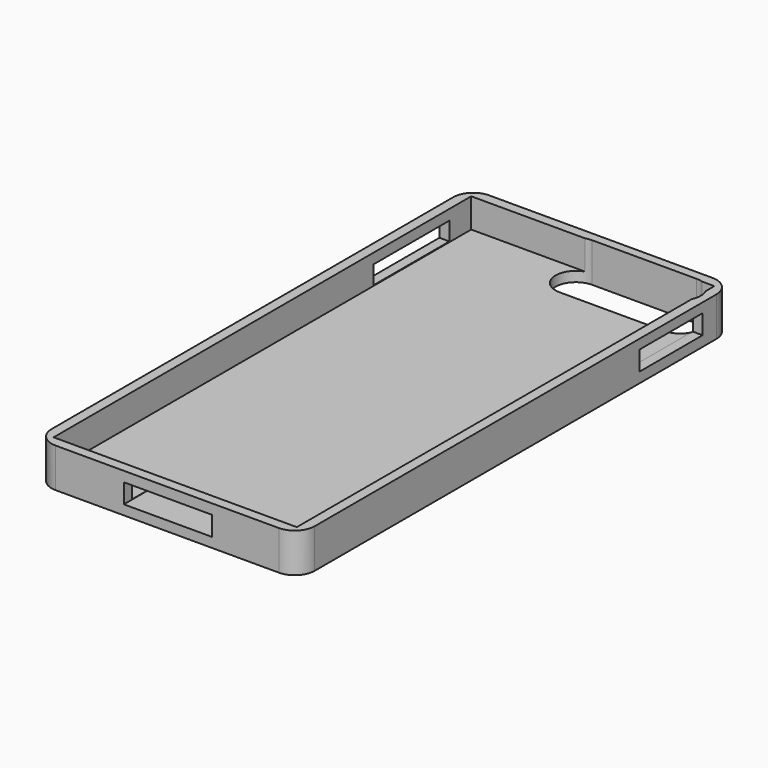
from build123d import *

# Parameters (mm, degrees)
F0_W      = 67
F0_H      = 138
F1_DEPTH  = 10
F2_T      = -2.54
F3_R      = 5.08
F4_R      = 5.08
F5_R      = 5.08
F6_R      = 5.08
F7_W      = 26.614272967
F7_H      = 10.362688452
F8_DEPTH  = 25.4
F9_W      = 22.4436074495
F9_H      = 4.9550822005
F10_DEPTH = 12.7
F11_W     = 24.2274198681
F11_H     = 4.6703449916
F12_DEPTH = 25.4
F13_W     = 20.1118066907
F13_H     = 4.9550810363
F14_DEPTH = 25.4


with BuildPart() as f1:
    # F0 (on Top) → F1 (new body)
    with BuildSketch(Plane.XY):
        with Locations((-11.3872148991, -5.1804912686)):
            Rectangle(F0_W, F0_H)
    extrude(amount=F1_DEPTH)

    # F2
    f2_openings = [f1.faces().sort_by_distance(p)[0] for p in [
        (-11.387215, -5.180491, 10),
    ]]
    offset(amount=F2_T, openings=f2_openings)

    # F3
    f3_edges = [f1.edges().sort_by_distance(p)[0] for p in [
        (-44.887215, 63.819509, 5),
    ]]
    fillet(f3_edges, radius=F3_R)

    # F4
    f4_edges = [f1.edges().sort_by_distance(p)[0] for p in [
        (22.112785, 63.819509, 5),
    ]]
    fillet(f4_edges, radius=F4_R)

    # F5
    f5_edges = [f1.edges().sort_by_distance(p)[0] for p in [
        (22.112785, -74.180491, 5),
    ]]
    fillet(f5_edges, radius=F5_R)

    # F6
    f6_edges = [f1.edges().sort_by_distance(p)[0] for p in [
        (-44.887215, -74.180491, 5),
    ]]
    fillet(f6_edges, radius=F6_R)

    # F7 (on face) → F8 (cut)
    with BuildSketch(Plane(origin=(0, 0, 0), x_dir=(1, 0, 0), z_dir=(0, 0, -1))):
        with Locations((1.5710769221, -56.3431996852)):
            Rectangle(F7_W, F7_H)
        with BuildLine():
            Line((14.8782134056, -51.1618554592), (14.8782134056, -61.5245439112))
            ThreePointArc((14.8782134056, -61.5245439112), (20.0595576316, -56.3431996852), (14.8782134056, -51.1618554592))
        make_face()
        with BuildLine():
            ThreePointArc((-11.7360595614, -51.1618554592), (-16.9174037874, -56.3431996852), (-11.7360595614, -61.5245439112))
            Line((-11.7360595614, -61.5245439112), (-11.7360595614, -51.1618554592))
        make_face()
    extrude(amount=-F8_DEPTH, mode=Mode.SUBTRACT)

    # F9 (on face) → F10 (cut, symmetric)
    with BuildSketch(Plane.XZ.offset(74.1804912686)):
        with Locations((-11.2218037248, 4.9550822005)):
            Rectangle(F9_W, F9_H)
    extrude(amount=F10_DEPTH, both=True, mode=Mode.SUBTRACT)

    # F11 (on face) → F12 (cut)
    with BuildSketch(Plane(origin=(-44.8872148991, 0, 0), x_dir=(0, -1, 0), z_dir=(-1, 0, 0))):
        with Locations((-42.2179875895, 5.0382829504)):
            Rectangle(F11_W, F11_H)
    extrude(amount=-F12_DEPTH, mode=Mode.SUBTRACT)

    # F13 (on face) → F14 (cut)
    with BuildSketch(Plane.YZ.offset(22.1127851009)):
        with Locations((44.3042628467, 5.1008212613)):
            Rectangle(F13_W, F13_H)
    extrude(amount=-F14_DEPTH, mode=Mode.SUBTRACT)


solid = f1.part
